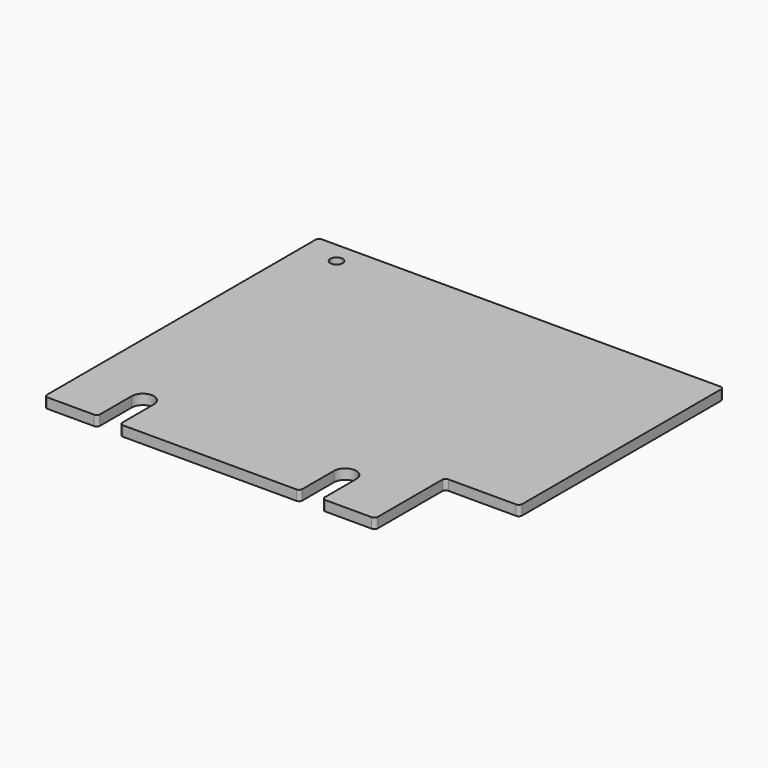
from build123d import *

# Parameters (mm, degrees)
SKETCH_R  = 1.8288
PAD_DEPTH = 3


with BuildPart() as part:
    # Sketch → Pad (new body)
    with BuildSketch(Plane.XY):
        with BuildLine():
            Line((0, 100.6), (0, 1))
            ThreePointArc((0, 1), (0.292893, 0.292893), (1, 0))
            Line((1, 0), (14.748, 0))
            ThreePointArc((14.748, 0), (15.455107, 0.292893), (15.748, 1))
            Line((15.748, 12.7), (15.748, 1))
            ThreePointArc((22.352, 12.7), (19.05, 16.002), (15.748, 12.7))
            Line((22.352, 12.7), (22.352, 1))
            ThreePointArc((22.352, 1), (22.644893, 0.292893), (23.352, 0))
            Line((23.352, 0), (74.748, 0))
            ThreePointArc((74.748, 0), (75.455107, 0.292893), (75.748, 1))
            Line((75.748, 12.7), (75.748, 1))
            ThreePointArc((82.352, 12.7), (79.05, 16.002), (75.748, 12.7))
            Line((82.352, 12.7), (82.352, 1))
            ThreePointArc((82.352, 1), (82.644893, 0.292893), (83.352, 0))
            Line((83.352, 0), (97.1, 0))
            ThreePointArc((97.1, 0), (97.807107, 0.292893), (98.1, 1))
            Line((98.1, 1), (98.1, 24.9))
            ThreePointArc((99.1, 25.9), (98.392893, 25.607107), (98.1, 24.9))
            Line((99.1, 25.9), (119.2001, 25.9))
            ThreePointArc((119.2001, 25.9), (119.907207, 26.192893), (120.2001, 26.9))
            Line((120.2001, 26.9), (120.2001, 100.6))
            ThreePointArc((120.2001, 100.6), (119.907207, 101.307107), (119.2001, 101.6))
            Line((119.2001, 101.6), (1, 101.6))
            ThreePointArc((1, 101.6), (0.292893, 101.307107), (0, 100.6))
        make_face()
        with Locations((10.46, 95.25)):
            Circle(SKETCH_R, mode=Mode.SUBTRACT)
    extrude(amount=PAD_DEPTH)


solid = part.part
